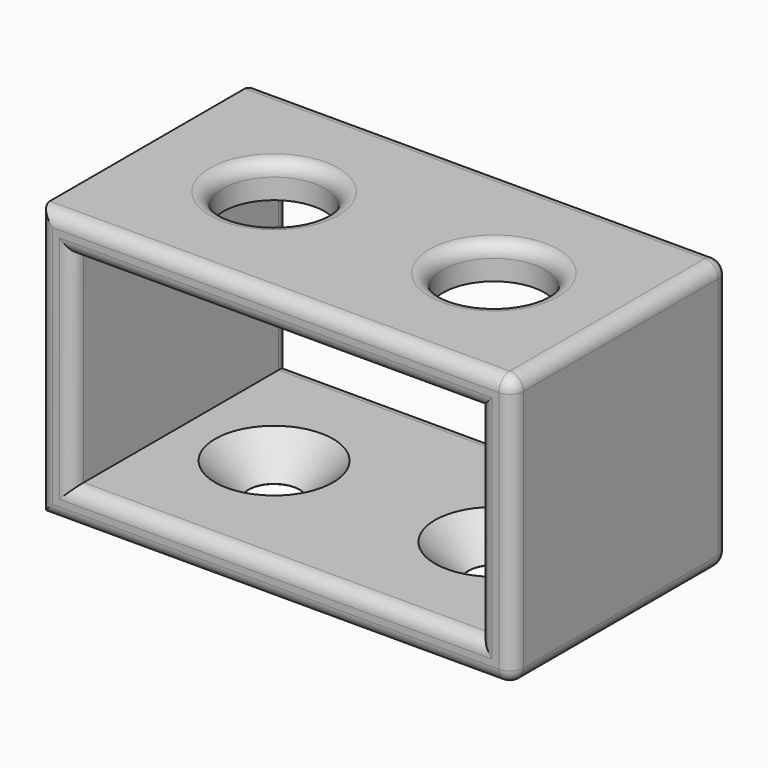
from build123d import *

# Parameters (mm, degrees)
SKETCH_W          = 35
SKETCH_H          = 20
PAD_DEPTH         = 20
SKETCH001_W       = 30
SKETCH001_H       = 15
POCKET_DEPTH      = 0.001
POCKET_DEPTH_BACK = 20.001
SKETCH002_R       = 3.75
POCKET001_DEPTH   = 3.5
SKETCH003_R       = 1.875
POCKET002_DEPTH   = 2.5
CHAMFER_SIZE      = 2.485
FILLET_R          = 1


with BuildPart() as part:
    # Sketch → Pad (new body)
    with BuildSketch(Plane.XZ):
        Rectangle(SKETCH_W, SKETCH_H)
    extrude(amount=PAD_DEPTH)

    # Sketch001 → Pocket (cut, two sides)
    with BuildSketch(Plane.XZ) as pocket_sk:
        Rectangle(SKETCH001_W, SKETCH001_H)
    extrude(amount=-POCKET_DEPTH, mode=Mode.SUBTRACT)
    extrude(pocket_sk.sketch, amount=POCKET_DEPTH_BACK, mode=Mode.SUBTRACT)

    # Sketch002 (on DatumPlane) → Pocket001 (cut)
    with BuildSketch(Plane(origin=(0, 0, 10), x_dir=(-1, 0, 0), z_dir=(0, 0, 1))):
        with Locations((-8.125, 10)):
            Circle(SKETCH002_R)
        with Locations((8.125, 10)):
            Circle(SKETCH002_R)
    extrude(amount=-POCKET001_DEPTH, mode=Mode.SUBTRACT)

    # Sketch003 (on DatumPlane) → Pocket002 (cut)
    with BuildSketch(Plane(origin=(0, 0, -7.5), x_dir=(-1, 0, 0), z_dir=(0, 0, 1))):
        with Locations((-8.125, 10)):
            Circle(SKETCH003_R)
        with Locations((8.125, 10)):
            Circle(SKETCH003_R)
    extrude(amount=-POCKET002_DEPTH, mode=Mode.SUBTRACT)

    # Chamfer
    chamfer_edges = [part.edges().sort_by_distance(p)[0] for p in [
        (-6.25, -10, -7.5),
        (10, -10, -7.5),
    ]]
    chamfer(chamfer_edges, length=CHAMFER_SIZE)

    # Fillet
    fillet_edges = [part.edges().sort_by_distance(p)[0] for p in [
        (-17.5, -20, 0),
        (0, -20, 10),
        (0, -20, -10),
        (17.5, -20, 0),
        (-15, -20, 0),
        (0, -20, 7.5),
        (15, -20, 0),
        (0, -20, -7.5),
        (-4.375, -10, 10),
        (11.875, -10, 10),
        (17.5, -10, 10),
        (17.5, -10, -10),
        (-17.5, 0, 0),
        (0, 0, 10),
        (0, 0, -10),
        (17.5, 0, 0),
        (-15, 0, 0),
        (0, 0, 7.5),
        (15, 0, 0),
        (0, 0, -7.5),
    ]]
    fillet(fillet_edges, radius=FILLET_R)


solid = part.part
